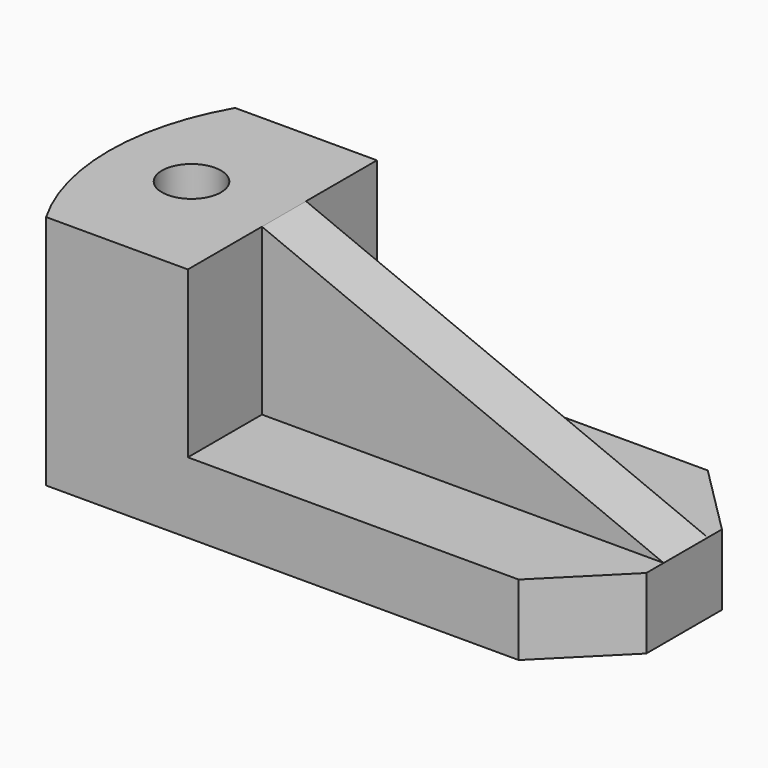
from build123d import *

# Parameters (mm, degrees)
F1_DEPTH = 9
F3_DEPTH = 21
F4_W     = 51
F4_H     = 7
F5_DEPTH = 21
F7_DEPTH = 25
F8_R     = 3.75
F9_DEPTH = 21


with BuildPart() as f1:
    # F0 (on Top) → F1 (new body)
    with BuildSketch(Plane.XY):
        with BuildLine():
            ThreePointArc((0, 0), (-4.019238, -15), (0, -30))
            Line((0, -30), (60, -30))
            Line((60, -30), (69, -21))
            Line((69, -21), (69, -9))
            Line((69, -9), (60, 0))
            Line((60, 0), (0, 0))
        make_face()
    extrude(amount=F1_DEPTH)

    # F2 (on face) → F3 (join)
    with BuildSketch(Plane.XY.offset(9)):
        with BuildLine():
            Line((0, -30), (18, -30))
            Line((18, -30), (18, 0))
            Line((18, 0), (0, 0))
            ThreePointArc((0, 0), (-4.019238, -15), (0, -30))
        make_face()
    extrude(amount=F3_DEPTH)

    # F4 (on face) → F5 (join)
    with BuildSketch(Plane.XY.offset(9)):
        with Locations((43.5, -14.746526)):
            Rectangle(F4_W, F4_H)
    extrude(amount=F5_DEPTH)

    # F6 (on face) → F7 (cut)
    with BuildSketch(Plane.XZ.offset(18.246526)):
        Polygon((69, 30), (18, 30), (69, 9), align=None)
    extrude(amount=-F7_DEPTH, mode=Mode.SUBTRACT)

    # F8 (on face) → F9 (cut)
    with BuildSketch(Plane.XY.offset(30)):
        with Locations((6.480922, -15.023556)):
            Circle(F8_R)
    extrude(amount=-F9_DEPTH, mode=Mode.SUBTRACT)


solid = f1.part
